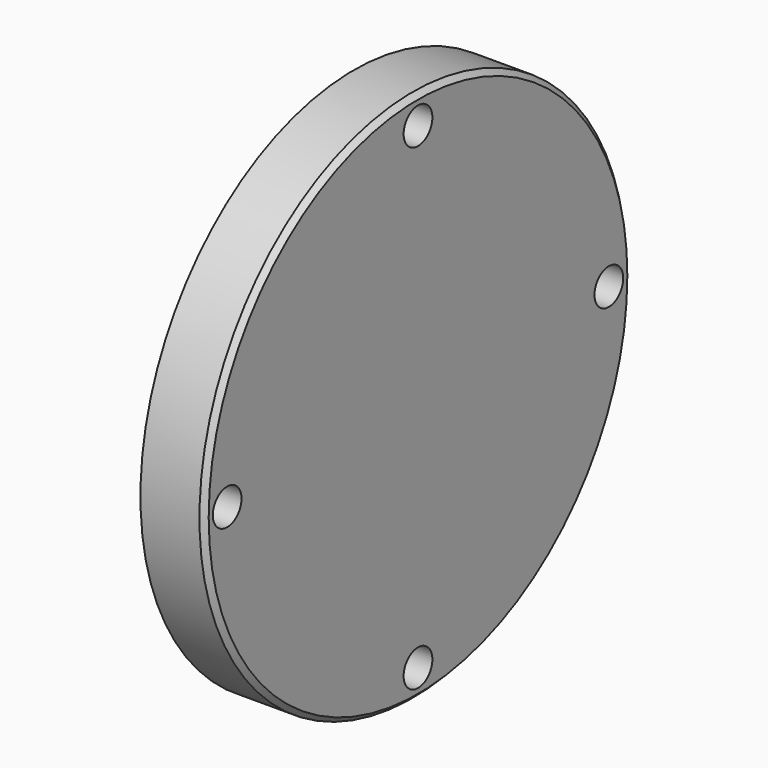
from build123d import *

# Parameters (mm, degrees)
F0_R     = 104
F1_DEPTH = 25
F2_R     = 75
F3_DEPTH = 15
F4_R     = 3
F5_SIZE  = 2
F7_D     = 14


with BuildPart() as f1:
    # F0 (on Right) → F1 (new body)
    with BuildSketch(Plane.YZ):
        Circle(F0_R)
    extrude(amount=-F1_DEPTH)

    # F2 (on face) → F3 (cut)
    with BuildSketch(Plane(origin=(-25, 0, 0), x_dir=(0, -1, 0), z_dir=(-1, 0, 0))):
        Circle(F2_R)
    extrude(amount=-F3_DEPTH, mode=Mode.SUBTRACT)

    # F4
    f4_edges = [f1.edges().sort_by_distance(p)[0] for p in [
        (-10, 75, 0),
    ]]
    fillet(f4_edges, radius=F4_R)

    # F5
    f5_edges = [f1.edges().sort_by_distance(p)[0] for p in [
        (0, -104, 0),
    ]]
    chamfer(f5_edges, length=F5_SIZE)

    # F7 (through all)
    with Locations(Plane.YZ):
        with Locations((0, 93), (93, 0), (0, -93), (-93, 0)):
            Hole(F7_D / 2)


solid = f1.part
